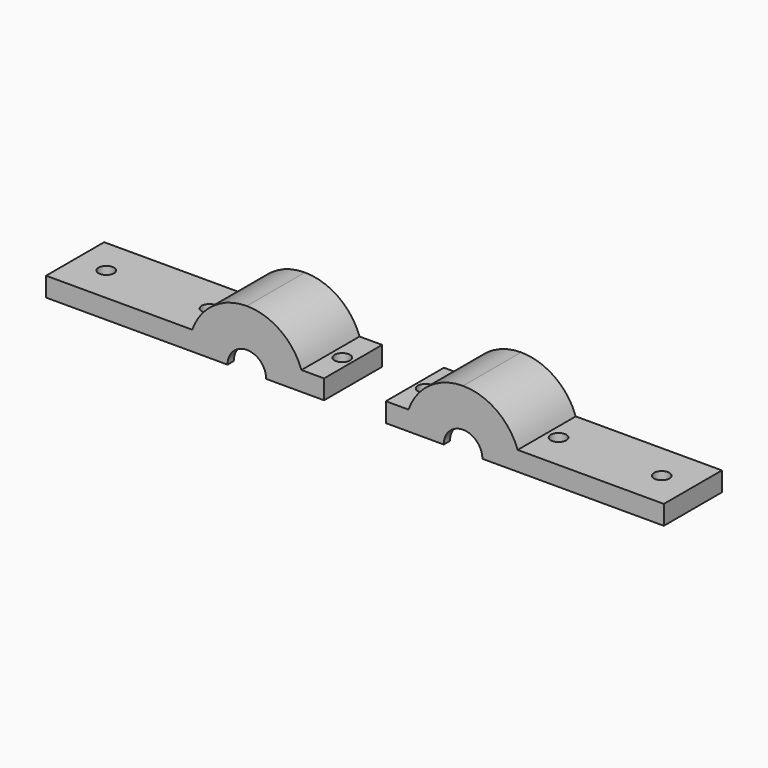
from build123d import *

# Parameters (mm, degrees)
F1_DEPTH  = 37
F2_DEPTH  = 5
F4_W      = 50
F4_H      = 50
F5_DEPTH  = 5
F7_R      = 5
F8_DEPTH  = 100
F9_R      = 12.5
F10_DEPTH = 5
F12_DEPTH = 55
F14_W     = 80
F14_H     = 12.5
F15_DEPTH = 47
F16_R     = 5
F17_DEPTH = 25


with BuildPart() as f1:
    # F0 (on Front) → F1 (new body)
    with BuildSketch(Plane.XZ):
        with BuildLine():
            Line((-50, 0), (-28.5, 0))
            ThreePointArc((-28.5, 0), (-20.1525432638, 20.1525432638), (0, 28.5))
            Line((0, 28.5), (0, 50))
            Line((0, 50), (-50, 50))
            Line((-50, 50), (-50, 0))
        make_face()
    extrude(amount=F1_DEPTH)

    # F0 (on Front) → F2 (join)
    with BuildSketch(Plane.XZ):
        with BuildLine():
            Line((-28.5, 0), (0, 0))
            Line((0, 0), (0, 28.5))
            ThreePointArc((0, 28.5), (-20.1525432638, 20.1525432638), (-28.5, 0))
        make_face()
        with BuildLine():
            Line((-50, 0), (-28.5, 0))
            ThreePointArc((-28.5, 0), (-20.1525432638, 20.1525432638), (0, 28.5))
            Line((0, 28.5), (0, 50))
            Line((0, 50), (-50, 50))
            Line((-50, 50), (-50, 0))
        make_face()
    extrude(amount=-F2_DEPTH)

    # F4 (on offset) → F5 (join)
    with BuildSketch(Plane.XZ.offset(37)):
        with Locations((-25, 25)):
            Rectangle(F4_W, F4_H)
    extrude(amount=F5_DEPTH)

    # F6: union 

    # F7 (on face) → F8 (cut)
    with BuildSketch(Plane.XY.offset(50)):
        with Locations((-43, -18.5)):
            Circle(F7_R)
    extrude(amount=-F8_DEPTH, mode=Mode.SUBTRACT)

    # F9 (on face) → F10 (cut)
    with BuildSketch(Plane.XZ.offset(42)):
        Circle(F9_R)
    extrude(amount=-F10_DEPTH, mode=Mode.SUBTRACT)

    # F11 (on face) → F12 (cut)
    with BuildSketch(Plane.XZ.offset(42)):
        with BuildLine():
            ThreePointArc((-35.3553390593, 12.5), (-21.6506350946, 30.6186217848), (0, 37.5))
            Line((0, 37.5), (0, 50))
            Line((0, 50), (-50, 50))
            Line((-50, 50), (-50, 12.5))
            Line((-50, 12.5), (-35.3553390593, 12.5))
        make_face()
    extrude(amount=-F12_DEPTH, mode=Mode.SUBTRACT)

    # F13: F1 across plane


with BuildPart() as f1_1:
    add(f1.part)
    add(f1.part.mirror(Plane.YZ))

    # F14 (on face) → F15 (join)
    with BuildSketch(Plane.XZ.offset(42)):
        with Locations((90, 6.25)):
            Rectangle(F14_W, F14_H)
    extrude(amount=-F15_DEPTH)

    # F16 (on face) → F17 (cut)
    with BuildSketch(Plane.XY.offset(12.5)):
        with Locations((109.8330691457, -18.5)):
            Circle(F16_R)
    extrude(amount=-F17_DEPTH, mode=Mode.SUBTRACT)


with BuildPart() as f19_1:
    # F19: instance of F1
    add(f1_1.part.mirror(Plane.YZ.offset(-70)))


solid = Compound([f1_1.part, f19_1.part])
